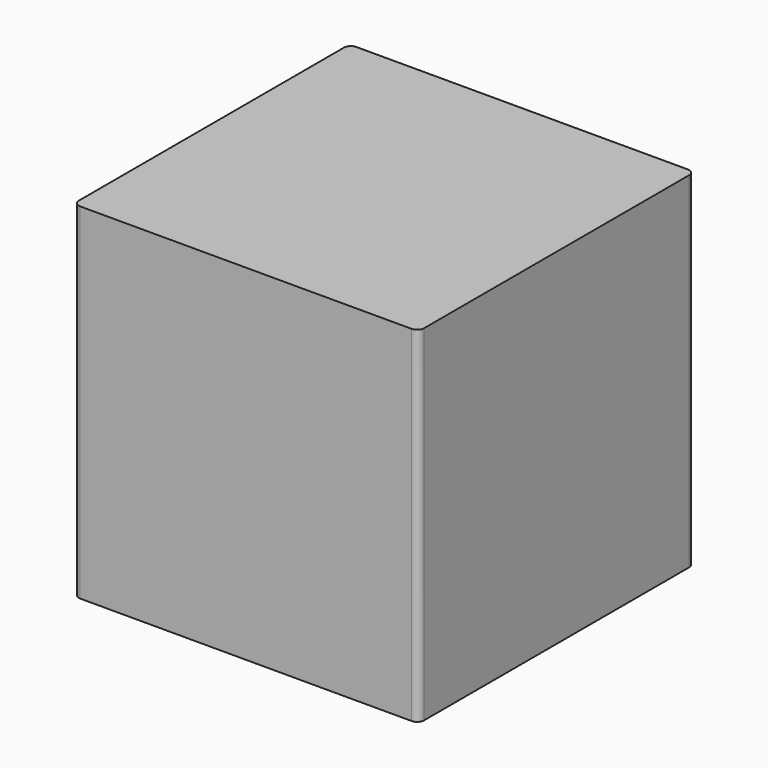
from build123d import *

# Parameters (mm, degrees)
F0_W      = 50.8
F0_H      = 50.8
F1_DEPTH  = 25.4
F1_FACE_W = 50.8
F1_FACE_H = 50.8
F2_DEPTH  = 25.4
F3_R      = 1.016


with BuildPart() as f1:
    # F0 (on Front) → F1 (new body)
    with BuildSketch(Plane.XZ):
        Rectangle(F0_W, F0_H)
    extrude(amount=F1_DEPTH)

    # F1_face (on face) → F2 (join)
    with BuildSketch(Plane(origin=(0, 0, 0), x_dir=(1, 0, 0), z_dir=(0, 1, 0))):
        Rectangle(F1_FACE_W, F1_FACE_H)
    extrude(amount=F2_DEPTH)

    # F3
    f3_edges = [f1.edges().sort_by_distance(p)[0] for p in [
        (25.4, -25.4, 0),
        (25.4, 25.4, 0),
        (-25.4, 25.4, 0),
        (-25.4, -25.4, 0),
    ]]
    fillet(f3_edges, radius=F3_R)


solid = f1.part
